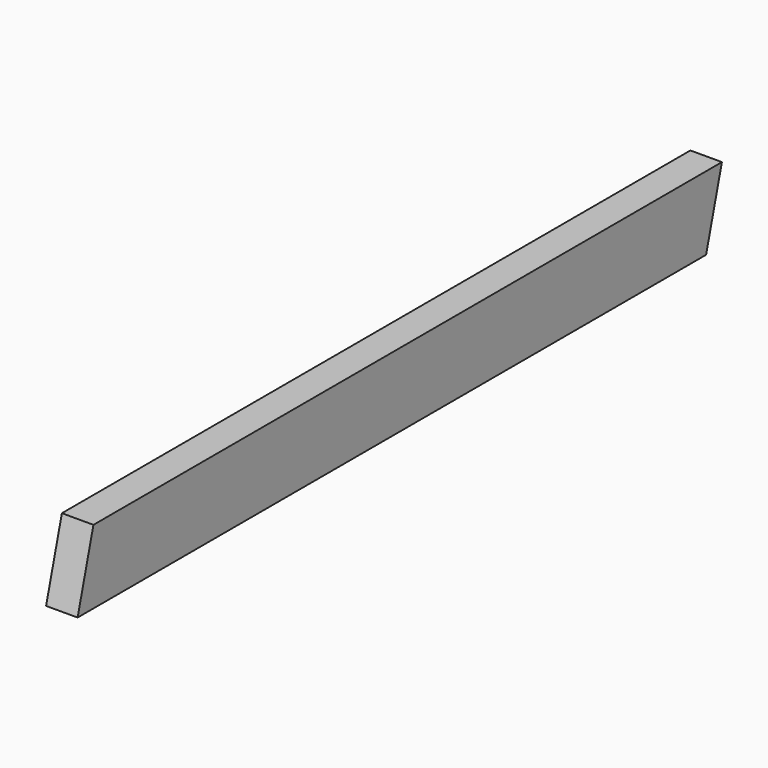
from build123d import *

# Parameters (mm, degrees)
F0_W     = 38.1
F0_H     = 88.9
F1_DEPTH = 972.82
F3_DEPTH = 25.4
F5_DEPTH = 25.4


with BuildPart() as f1:
    # F0 (on Front) → F1 (new body)
    with BuildSketch(Plane.XZ):
        Rectangle(F0_W, F0_H)
    extrude(amount=F1_DEPTH)

    # F2 (on Right) → F3 (cut, symmetric)
    with BuildSketch(Plane.YZ):
        Polygon((-972.82, -44.45), (-948.944, 44.45), (-972.82, 44.45), align=None)
    extrude(amount=F3_DEPTH, both=True, mode=Mode.SUBTRACT)

    # F4 (on Right) → F5 (cut, symmetric)
    with BuildSketch(Plane.YZ):
        Polygon((0, -44.45), (0, 44.45), (-23.876, -44.45), align=None)
    extrude(amount=F5_DEPTH, both=True, mode=Mode.SUBTRACT)


solid = f1.part
